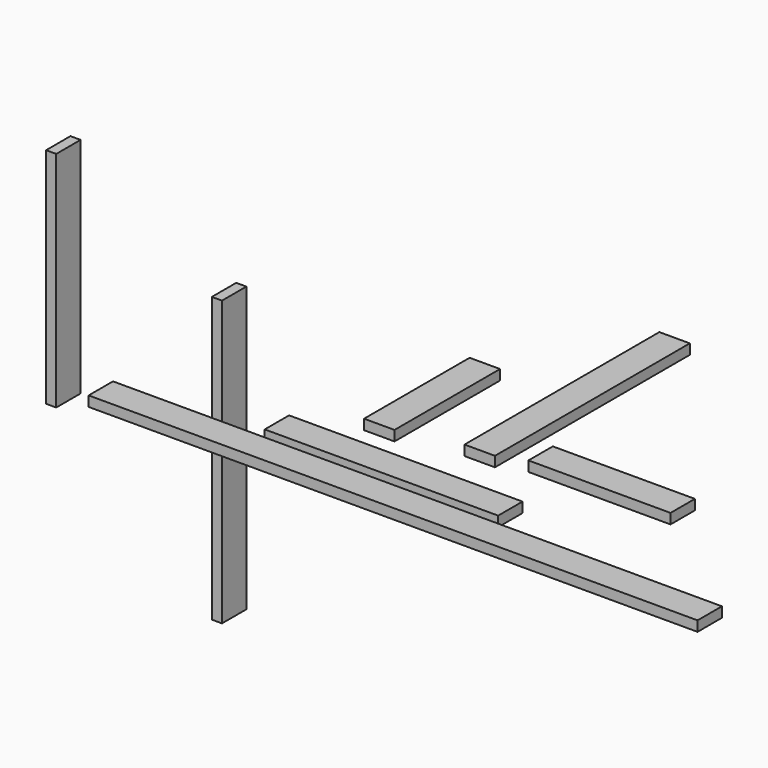
from build123d import *

# Parameters (mm, degrees)
F0_W      = 1524
F0_H      = 76.2
F1_DEPTH  = 25.4
F2_W      = 76.2
F2_H      = 711.2
F3_DEPTH  = 25.4
F4_W      = 76.2
F4_H      = 558.8
F5_DEPTH  = 25.4
F6_W      = 76.2
F6_H      = 330.2
F7_DEPTH  = 25.4
F8_W      = 584.2
F8_H      = 76.2
F9_DEPTH  = 25.4
F10_W     = 76.2
F10_H     = 609.6
F11_DEPTH = 25.4
F12_W     = 355.6
F12_H     = 76.2
F13_DEPTH = 25.4


with BuildPart() as f1:
    # F0 (on Top) → F1 (new body)
    with BuildSketch(Plane.XY):
        with Locations((744.387708, 67.060482)):
            Rectangle(F0_W, F0_H)
    extrude(amount=F1_DEPTH)


with BuildPart() as f3:
    # F2 (on Right) → F3 (new body)
    with BuildSketch(Plane.YZ):
        with Locations((430.530787, -255.1134)):
            Rectangle(F2_W, F2_H)
    extrude(amount=F3_DEPTH)


with BuildPart() as f5:
    # F4 (on Right) → F5 (new body)
    with BuildSketch(Plane.YZ):
        with Locations((-88.074505, 355.106401)):
            Rectangle(F4_W, F4_H)
    extrude(amount=F5_DEPTH)


with BuildPart() as f7:
    # F6 (on Top) → F7 (new body)
    with BuildSketch(Plane.XY):
        with Locations((502.330919, 453.40395)):
            Rectangle(F6_W, F6_H)
    extrude(amount=F7_DEPTH)


with BuildPart() as f9:
    # F8 (on Top) → F9 (new body)
    with BuildSketch(Plane.XY):
        with Locations((633.075207, 169.699594)):
            Rectangle(F8_W, F8_H)
    extrude(amount=F9_DEPTH)


with BuildPart() as f11:
    # F10 (on Top) → F11 (new body)
    with BuildSketch(Plane.XY):
        with Locations((724.020928, 630.211345)):
            Rectangle(F10_W, F10_H)
    extrude(amount=F11_DEPTH)


with BuildPart() as f13:
    # F12 (on Top) → F13 (new body)
    with BuildSketch(Plane.XY):
        with Locations((1003.24887, 389.137766)):
            Rectangle(F12_W, F12_H)
    extrude(amount=F13_DEPTH)


solid = Compound([f1.part, f3.part, f5.part, f7.part, f9.part, f11.part, f13.part])
